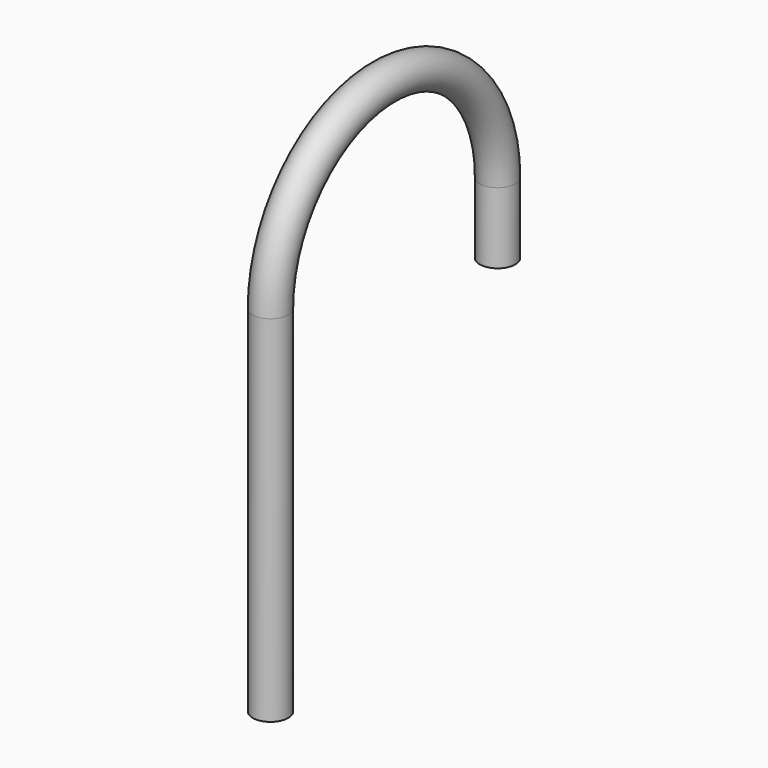
from build123d import *

# Parameters (mm, degrees)
F1_R   = 6.35
F1_R_2 = 4.587099


with BuildPart() as f2:
    # F2: sweep along a path in F0
    with BuildLine(Plane.YZ) as f2_path:
        Line((0, 0), (0, 25.4))
        ThreePointArc((0, 25.4), (-50.8, 76.2), (-101.6, 25.4))
        Line((-101.6, 25.4), (-101.6, -101.6))
    # F1 (on Top) → F2 (sweep)
    with BuildSketch(Plane.XY):
        Circle(F1_R)
        Circle(F1_R_2, mode=Mode.SUBTRACT)
    sweep(path=f2_path.line)


solid = f2.part
